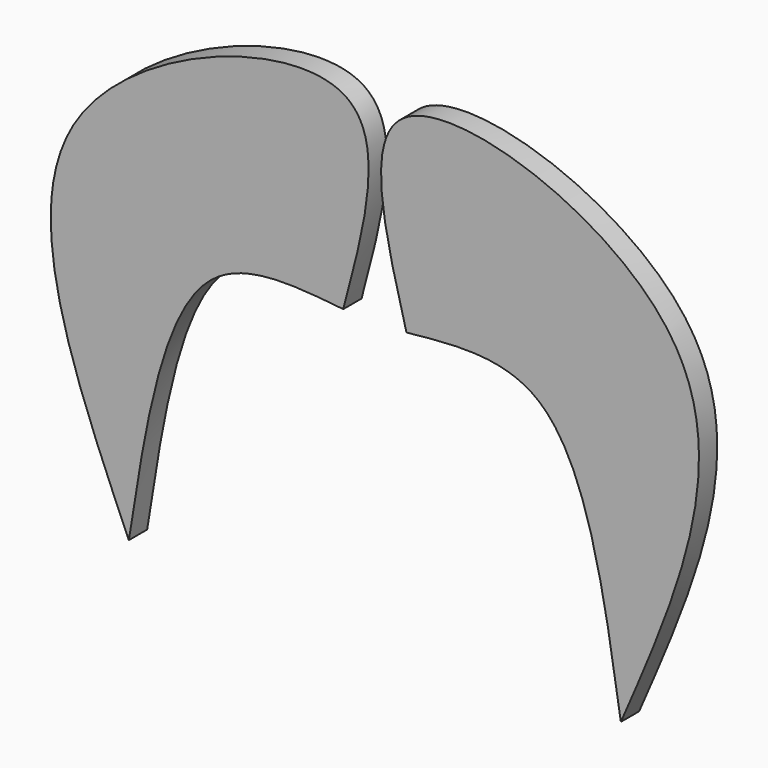
from build123d import *

# Parameters (mm, degrees)
F1_DEPTH = 3


with BuildPart() as f1:
    # F0 (on Front) → F1 (new body)
    with BuildSketch(Plane.XZ):
        with BuildLine():
            add(Edge.make_bspline(
                [(4.144738894, 16.8750006706), (1.2585566832, 27.6400886869), (-5.1636861275, 51.5942274317), (53.8594640403, 30.8363291653), (39.7427095209, -1.7154634709), (32.2697386146, -18.9473703504)],
                knots=[0, 0, 0, 0, 0.2775274816, 0.6175455128, 1, 1, 1, 1], degree=3))
            add(Edge.make_bspline(
                [(32.2697386146, -18.9473703504), (30.0822121184, -4.8587338138), (26.3447187279, 19.2123739091), (10.6524442844, 17.5601786094), (4.144738894, 16.8750006706)],
                knots=[0, 0, 0, 0, 0.5852924053, 1, 1, 1, 1], degree=3))
        make_face()
    extrude(amount=F1_DEPTH)


with BuildPart() as f1b:
    # F0 (on Front) → F1, piece 2 (new body)
    with BuildSketch(Plane.XZ):
        with BuildLine():
            add(Edge.make_bspline(
                [(-32.2697386146, -18.9473703504), (-30.0822121184, -4.8587338138), (-26.3447187279, 19.2123739091), (-10.6524442844, 17.5601786094), (-4.144738894, 16.8750006706)],
                knots=[0, 0, 0, 0, 0.5852924053, 1, 1, 1, 1], degree=3))
            add(Edge.make_bspline(
                [(-4.144738894, 16.8750006706), (-1.2585566832, 27.6400886869), (5.1636861275, 51.5942274317), (-53.8594640403, 30.8363291653), (-39.7427095209, -1.7154634709), (-32.2697386146, -18.9473703504)],
                knots=[0, 0, 0, 0, 0.2775274816, 0.6175455128, 1, 1, 1, 1], degree=3))
        make_face()
    extrude(amount=F1_DEPTH)


solid = Compound([f1.part, f1b.part])
